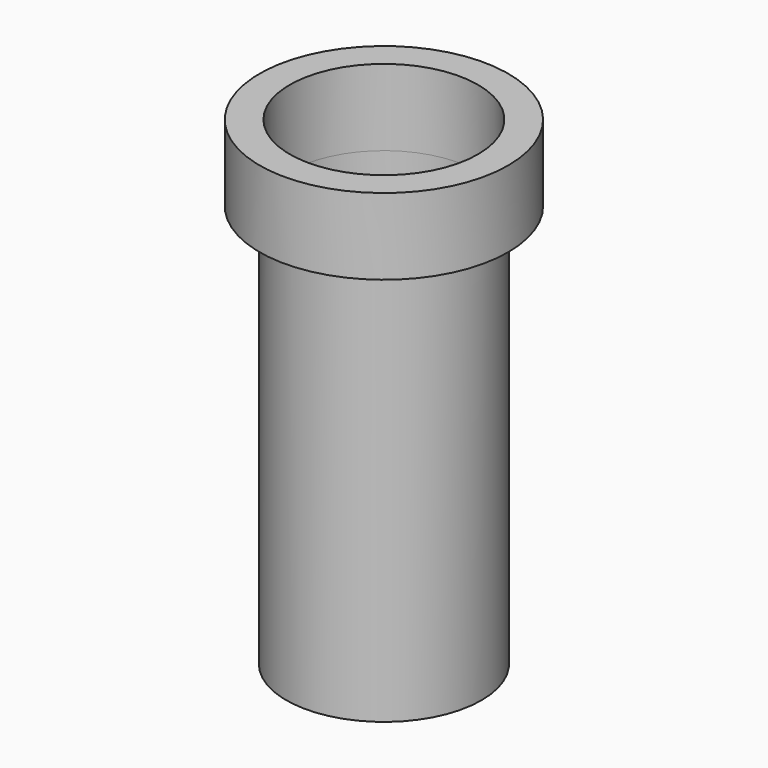
from build123d import *

# Parameters (mm, degrees)
F0_R     = 2.75
F1_DEPTH = 11.35
F2_R     = 3.5
F3_DEPTH = 2.15
F4_R     = 2.65
F5_DEPTH = 11.5
F6_R     = 0.75
F7_DEPTH = 13.501


with BuildPart() as f1:
    # F0 (on Top) → F1 (new body)
    with BuildSketch(Plane.XY):
        Circle(F0_R)
    extrude(amount=-F1_DEPTH)


with BuildPart() as f3:
    # F2 (on Top) → F3 (new body)
    with BuildSketch(Plane.XY):
        Circle(F2_R)
    extrude(amount=F3_DEPTH)


with BuildPart() as f5_tool:
    # F4 (on face) → F5 (new body)
    with BuildSketch(Plane.XY.offset(2.15)):
        Circle(F4_R)
    extrude(amount=-F5_DEPTH)


with BuildPart() as f1_1:
    add(f1.part)

    # F5: cut by f5_tool
    add(f5_tool.part, mode=Mode.SUBTRACT)

    # F6 (on face) → F7 (cut, through all)
    with BuildSketch(Plane(origin=(0, 0, -11.35), x_dir=(1, 0, 0), z_dir=(0, 0, -1))):
        Circle(F6_R)
    extrude(amount=-F7_DEPTH, mode=Mode.SUBTRACT)


with BuildPart() as f3_1:
    add(f3.part)

    # F5: cut by f5_tool
    add(f5_tool.part, mode=Mode.SUBTRACT)


solid = Compound([f1_1.part, f3_1.part])
